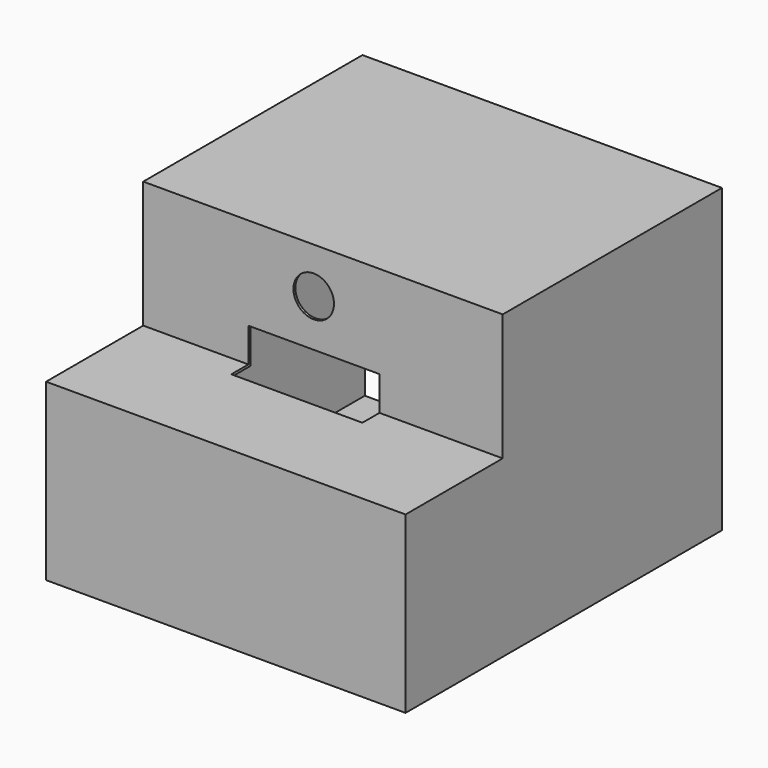
from build123d import *

# Parameters (mm, degrees)
F0_W     = 384.636849165
F0_H     = 264.3615156412
F1_DEPTH = 322.58
F2_W     = 384.636849165
F2_H     = 129.9396157265
F3_DEPTH = 135.636
F4_DEPTH = 158.75
F5_T     = -2.54
F6_W     = 140.2605473995
F6_H     = 39.0601313553
F7_DEPTH = 25.4
F8_R     = 21.6824210641
F9_DEPTH = 25.4


with BuildPart() as f1:
    # F0 (on Top) → F1 (new body)
    with BuildSketch(Plane.XY):
        with Locations((9.9443048239, 2.2411420941)):
            Rectangle(F0_W, F0_H)
    extrude(amount=F1_DEPTH)

    # F2 (on face) → F3 (cut)
    with BuildSketch(Plane.XY.offset(322.58)):
        with Locations((9.9443048239, -64.9698078632)):
            Rectangle(F2_W, F2_H)
    extrude(amount=-F3_DEPTH, mode=Mode.SUBTRACT)

    # F4 (add): a face of the model
    f4_faces = [f1.faces().sort_by_distance(p)[0] for p in [
        (9.9443048239, 134.4218999147, 161.29),
    ]]
    extrude(f4_faces, amount=F4_DEPTH)

    # F5
    f5_openings = [f1.faces().sort_by_distance(p)[0] for p in [
        (9.944305, 293.1719, 161.29),
    ]]
    offset(amount=F5_T, openings=f5_openings, kind=Kind.INTERSECTION)

    # F6 (on face) → F7 (cut)
    with BuildSketch(Plane(origin=(0, 2.54, 0), x_dir=(-1, 0, 0), z_dir=(0, 1, 0))):
        with Locations((-0.2779662609, 203.9340656776)):
            Rectangle(F6_W, F6_H)
    extrude(amount=-F7_DEPTH, mode=Mode.SUBTRACT)

    # F8 (on face) → F9 (cut)
    with BuildSketch(Plane.XZ):
        with Locations((0, 273.7638354301)):
            Circle(F8_R)
    extrude(amount=-F9_DEPTH, mode=Mode.SUBTRACT)


solid = f1.part
